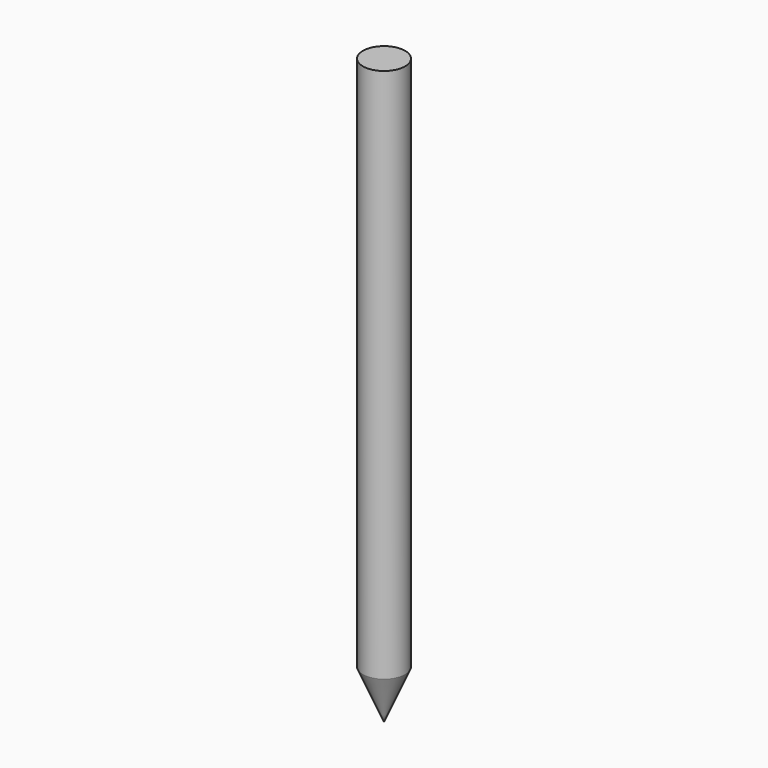
from build123d import *

# Parameters (mm, degrees)
CYLINDER_R     = 5.2
CYLINDER_DEPTH = 132


with BuildPart() as cono:
    # Cone → Cone (revolve)
    with BuildSketch(Plane(origin=(0, 0, -12), x_dir=(1, 0, 0), z_dir=(0, -1, 0))):
        Polygon((0, 0), (5.2, 12), (0, 12), align=None)
    revolve(axis=Axis((0, 0, -12), (0, 0, 1)))


with BuildPart() as obj1:
    # Cylinder → Cylinder (new body)
    with BuildSketch(Plane.XY):
        Circle(CYLINDER_R)
    extrude(amount=CYLINDER_DEPTH)

    # Fusion004: union Cono
    add(cono.part)


with BuildPart() as obj1_1:
    # Fusion004 placement: moved
    add(obj1.part.moved(Location((0, 0, -24))))


solid = obj1_1.part
